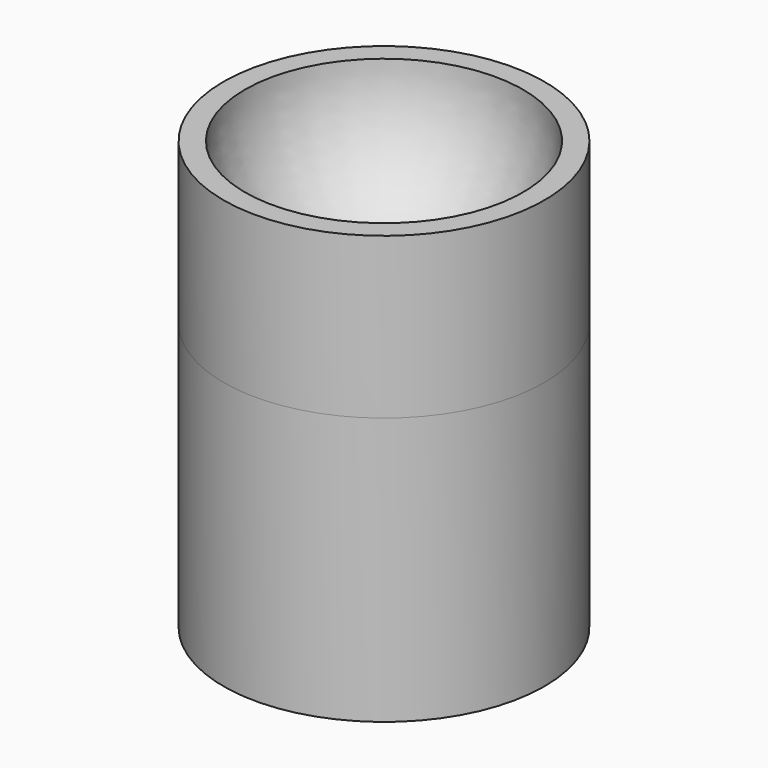
from build123d import *

# Parameters (mm, degrees)
F0_R     = 15
F1_DEPTH = 25


with BuildPart() as f1:
    # F0 (on Top) → F1 (new body)
    with BuildSketch(Plane.XY):
        Circle(F0_R)
    extrude(amount=F1_DEPTH)

    # F2 (on Front) → F3 (revolve)
    with BuildSketch(Plane.XZ):
        with BuildLine():
            Line((-15, 40), (-15, 25))
            Line((-15, 25), (0, 25))
            Line((0, 25), (0, 27))
            ThreePointArc((0, 27), (-9.22583, 30.77417), (-13, 40))
            Line((-13, 40), (-15, 40))
        make_face()
    revolve(axis=Axis((0, 0, 26), (0, 0, 1)))


solid = f1.part
